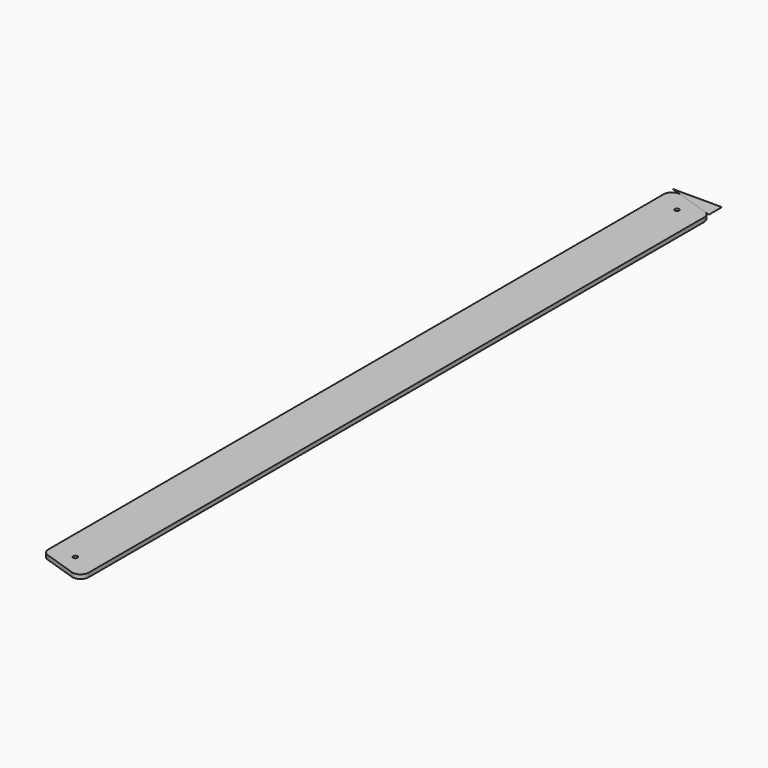
from build123d import *

# Parameters (mm, degrees)
F1_DEPTH = 6.35
F2_D     = 6.7564
F3_DEPTH = 0.0254


with BuildPart() as f1:
    # F0 (on Top) → F1 (new body)
    with BuildSketch(Plane.XY):
        with BuildLine():
            ThreePointArc((-21.3849480355, 604.0299201139), (-32.8262655504, 602.2837504366), (-38.1, 591.9812953906))
            Line((-38.1, 591.9812953906), (-38.1, 0))
            Line((-38.1, 0), (-38.1, -600.4455244823))
            ThreePointArc((-38.1, -600.4455244823), (-35.702455046, -607.8717900327), (-29.4150519645, -612.4941492056))
            Line((-29.4150519645, -612.4941492056), (21.3849480355, -629.4226073889))
            ThreePointArc((21.3849480355, -629.4226073889), (32.8262655504, -627.6764377116), (38.1, -617.3739826656))
            Line((38.1, -617.3739826656), (38.1, -25.392687275))
            Line((38.1, -25.392687275), (38.1, 575.0528372073))
            ThreePointArc((38.1, 575.0528372073), (35.702455046, 582.4791027577), (29.4150519645, 587.1014619306))
            Line((29.4150519645, 587.1014619306), (-21.3849480355, 604.0299201139))
        make_face()
        Polygon((-4.953, 0), (-4.953, 532.0304762354), (0, 532.0304762354), (4.953, 532.0304762354), (4.953, 0), (4.953, -557.4231635104), (0, -557.4231635104), (-4.953, -557.4231635104), align=None, mode=Mode.SUBTRACT)
        Polygon((0, 532.0304762354), (-4.953, 532.0304762354), (-4.953, 0), (-4.953, -557.4231635104), (0, -557.4231635104), (4.953, -557.4231635104), (4.953, 0), (4.953, 532.0304762354), align=None)
    extrude(amount=-F1_DEPTH)

    # F2 (through all)
    with Locations(Plane.XY):
        with Locations((0, 570.1304762354), (0, -595.5231635104)):
            Hole(F2_D / 2)


with BuildPart() as f3:
    # F0 (on Top) → F3 (new body)
    with BuildSketch(Plane.XY):
        Polygon((-38.1, 609.6), (-21.3849480355, 604.0299201139), (29.4150519645, 587.1014619306), (38.1, 584.207312725), (38.1, 609.6), align=None)
    extrude(amount=F3_DEPTH)


solid = Compound([f1.part, f3.part])
